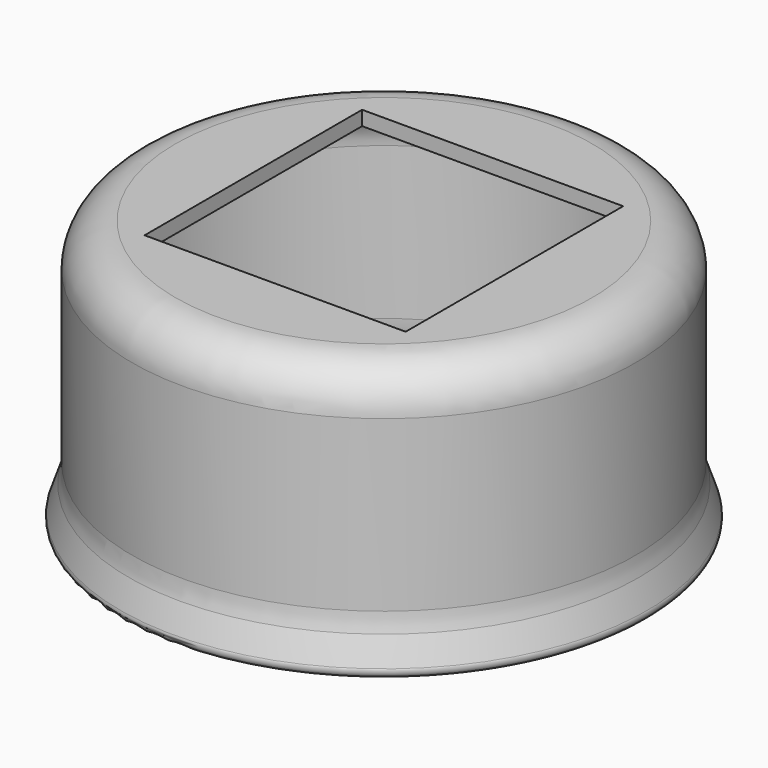
from build123d import *

# Parameters (mm, degrees)
F3_W     = 36.2
F3_H     = 37.7
F4_DEPTH = 25


with BuildPart() as f2:
    # F0 (on Front) → F2 (revolve)
    with BuildSketch(Plane.XZ):
        with BuildLine():
            ThreePointArc((-35.602870639, 0), (-35.635567059, 0.0005346709), (-35.6682285154, 0.0021381118))
            ThreePointArc((-35.6682285154, 0.0021381118), (-35.7008899718, 0.0005346709), (-35.7335863918, 0))
            Line((-35.7335863918, 0), (-35.602870639, 0))
        make_face()
    revolve(axis=Axis((0, 0, 18.1012302637), (0, 0, 1)))


with BuildPart() as f2b:
    # F0 (on Front) → F2, piece 2 (revolve)
    with BuildSketch(Plane.XZ):
        with BuildLine():
            Line((-27, 35), (0, 35))
            Line((0, 35), (0, 37))
            Line((0, 37), (-28.8990993685, 37))
            ThreePointArc((-28.8990993685, 37), (-33.1417400556, 35.2426406871), (-34.8990993685, 31))
            Line((-34.8990993685, 31), (-34.8990993685, 7.4919906787))
            ThreePointArc((-34.8990993685, 7.4919906787), (-35.0066744785, 6.1844627227), (-35.3265067074, 4.9120991327))
            Line((-35.3265067074, 4.9120991327), (-36.5494447216, 1.3224864433))
            ThreePointArc((-36.5494447216, 1.3224864433), (-36.434634729, 0.4448707372), (-35.6682285154, 0.0021381118))
            ThreePointArc((-35.6682285154, 0.0021381118), (-35.1160429305, 0.2134632409), (-34.779730303, 0.6997358465))
            Line((-34.779730303, 0.6997358465), (-33.4614391122, 4.8875819961))
            ThreePointArc((-33.4614391122, 4.8875819961), (-33.1160329604, 6.3712779889), (-33, 7.8902235313))
            Line((-33, 7.8902235313), (-33, 29))
            ThreePointArc((-33, 29), (-31.2426406871, 33.2426406871), (-27, 35))
        make_face()
    revolve(axis=Axis((0, 0, 18.1012302637), (0, 0, 1)))

    # F3 (on face) → F4 (cut)
    with BuildSketch(Plane.XY.offset(37)):
        Rectangle(F3_W, F3_H)
    extrude(amount=-F4_DEPTH, mode=Mode.SUBTRACT)


solid = Compound([f2.part, f2b.part])
